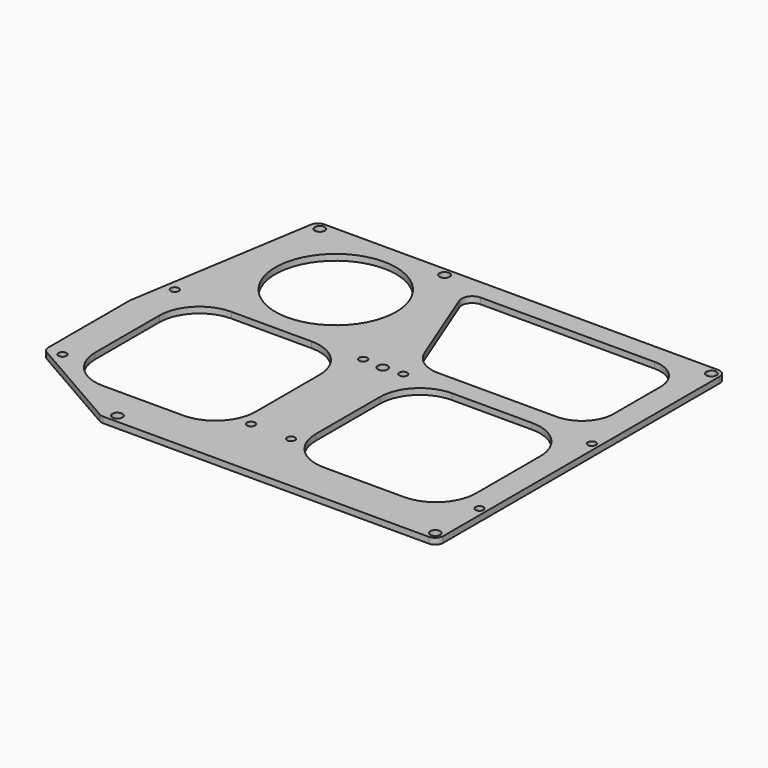
from build123d import *

# Parameters (mm, degrees)
SKETCH_R   = 2.5
SKETCH_R_2 = 2
SKETCH_R_3 = 30.106081
PAD_DEPTH  = 3
FILLET_R   = 4


with BuildPart() as part:
    # Sketch → Pad (new body)
    with BuildSketch(Plane.XY.offset(30)):
        Polygon((162.56, -90.17), (-5.000233, -90.169747), (-56.898089, -60.365632), (-56.898089, -7.158878), (-41.241165, 90.17), (162.56, 90.17), align=None)
        with Locations((25.4, 86.106)):
            Circle(SKETCH_R, mode=Mode.SUBTRACT)
        with Locations((158.496, 86.106)):
            Circle(SKETCH_R, mode=Mode.SUBTRACT)
        with Locations((55.4, 10.106)):
            Circle(SKETCH_R, mode=Mode.SUBTRACT)
        with Locations((0.007, -86.11)):
            Circle(SKETCH_R, mode=Mode.SUBTRACT)
        with Locations((158.496, -86.106)):
            Circle(SKETCH_R, mode=Mode.SUBTRACT)
        with Locations((-36.83, 86.11)):
            Circle(SKETCH_R, mode=Mode.SUBTRACT)
        with Locations((159.06, -59.17)):
            Circle(SKETCH_R_2, mode=Mode.SUBTRACT)
        with Locations((159.059998, 10.83)):
            Circle(SKETCH_R_2, mode=Mode.SUBTRACT)
        with Locations((65.059998, 10.830006)):
            Circle(SKETCH_R_2, mode=Mode.SUBTRACT)
        with Locations((65.06, -59.169994)):
            Circle(SKETCH_R_2, mode=Mode.SUBTRACT)
        with Locations((45.06, -59.169992)):
            Circle(SKETCH_R_2, mode=Mode.SUBTRACT)
        with Locations((45.059997, 10.830008)):
            Circle(SKETCH_R_2, mode=Mode.SUBTRACT)
        with Locations((-48.940003, 10.830015)):
            Circle(SKETCH_R_2, mode=Mode.SUBTRACT)
        with Locations((-48.94, -59.169984)):
            Circle(SKETCH_R_2, mode=Mode.SUBTRACT)
        with Locations((0, 50)):
            Circle(SKETCH_R_3, mode=Mode.SUBTRACT)
        with BuildLine():
            ThreePointArc((90.000007, 10), (75.857866, 4.142134), (70, -10.000007))
            Line((70, -50), (70, -10.000007))
            ThreePointArc((70, -50), (75.857866, -64.14214), (90.000007, -70.000007))
            Line((130, -70.000007), (90.000007, -70.000007))
            ThreePointArc((130, -70.000007), (144.14214, -64.14214), (150.000007, -50))
            Line((150.000007, -10.000007), (150.000007, -50))
            ThreePointArc((150.000007, -10.000007), (144.14214, 4.142134), (130, 10))
            Line((90.000007, 10), (130, 10))
        make_face(mode=Mode.SUBTRACT)
        with BuildLine():
            Line((-40, -50.00001), (-40, -10.000017))
            ThreePointArc((-19.999993, 9.99999), (-34.142134, 4.142124), (-40, -10.000017))
            Line((-19.999993, 9.99999), (20, 9.99999))
            ThreePointArc((40.000007, -10.000017), (34.14214, 4.142124), (20, 9.99999))
            Line((40.000007, -10.000017), (40.000007, -50.00001))
            ThreePointArc((20, -70.000017), (34.14214, -64.14215), (40.000007, -50.00001))
            Line((20, -70.000017), (-19.999993, -70.000017))
            ThreePointArc((-40, -50.00001), (-34.142134, -64.14215), (-19.999993, -70.000017))
        make_face(mode=Mode.SUBTRACT)
        with BuildLine():
            ThreePointArc((134.197919, 20), (145.371681, 24.628324), (150.000005, 35.802086))
            Line((150.000005, 65.000005), (150.000005, 35.802086))
            ThreePointArc((150.000005, 65.000005), (145.606605, 75.606611), (135, 80.00001))
            Line((48.267642, 80.00001), (135, 80.00001))
            ThreePointArc((48.267642, 80.00001), (43.934723, 77.707276), (43.393027, 72.835172))
            Line((60.301612, 30.000089), (43.393027, 72.835172))
            ThreePointArc((60.301612, 30.000089), (66.111185, 22.737064), (75.000005, 20))
            Line((134.197919, 20), (75.000005, 20))
        make_face(mode=Mode.SUBTRACT)
    extrude(amount=PAD_DEPTH)

    # Fillet
    fillet_edges = [part.edges().sort_by_distance(p)[0] for p in [
        (-5.000233, -90.169747, 31.5),
        (162.56, -90.17, 31.5),
        (162.56, 90.17, 31.5),
        (-56.898089, -60.365632, 31.5),
        (-56.898089, -7.158878, 31.5),
        (-41.241165, 90.17, 31.5),
    ]]
    fillet(fillet_edges, radius=FILLET_R)


solid = part.part
